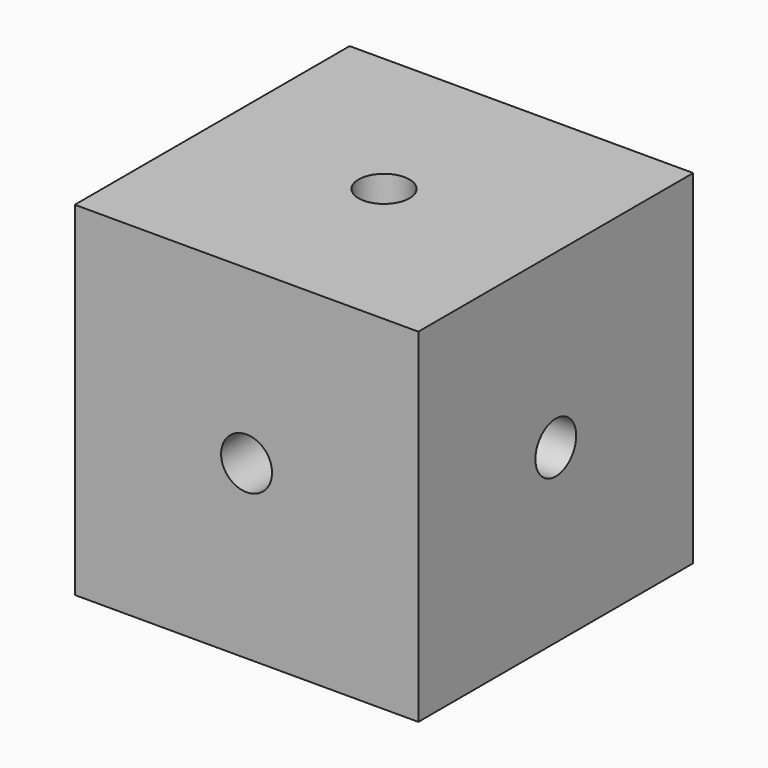
from build123d import *

# Parameters (mm, degrees)
F0_W     = 15.24
F0_H     = 15.24
F1_DEPTH = 15.24
F5_D     = 2.2606
F6_D     = 2.2606
F7_D     = 2.2606


with BuildPart() as f1:
    # F0 (on Front) → F1 (new body)
    with BuildSketch(Plane.XZ):
        with Locations((7.62, -7.62)):
            Rectangle(F0_W, F0_H)
    extrude(amount=F1_DEPTH)

    # F5 (through all)
    with Locations(Plane.XZ.offset(15.24)):
        with Locations((7.62, -7.62)):
            Hole(F5_D / 2)

    # F6 (through all)
    with Locations(Plane.YZ.offset(15.24)):
        with Locations((-7.62, -7.62)):
            Hole(F6_D / 2)

    # F7 (through all)
    with Locations(Plane.XY):
        with Locations((7.62, -7.62)):
            Hole(F7_D / 2)


solid = f1.part
